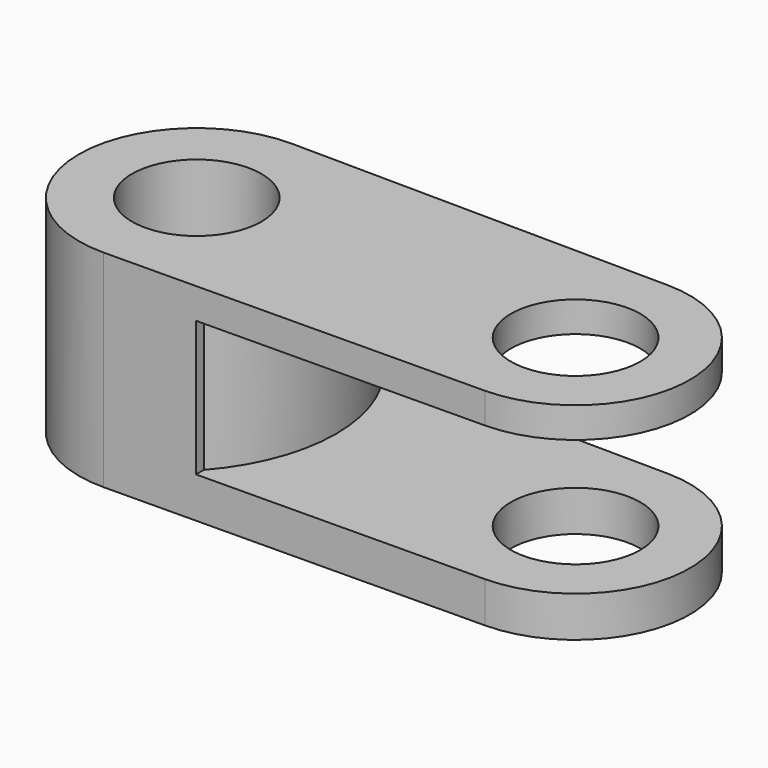
from build123d import *

# Parameters (mm, degrees)
F0_R     = 15.9206607186
F1_DEPTH = 50.8
F2_DEPTH = 50.8
F3_W     = 100.2022400498
F3_H     = 33.2709047943
F4_DEPTH = 77.724
F7_DEPTH = 36.83


with BuildPart() as f1:
    # F0 (on Top) → F1 (new body)
    with BuildSketch(Plane.XY):
        with BuildLine():
            ThreePointArc((-46.3083671537, -28.9735284728), (-17.6046094791, 0), (-46.3083671537, 28.9735284728))
            ThreePointArc((-46.3083671537, 28.9735284728), (-75.5542018517, 0), (-46.3083671537, -28.9735284728))
        make_face()
        with Locations((-46.5794056654, 0)):
            Circle(F0_R, mode=Mode.SUBTRACT)
    extrude(amount=F1_DEPTH)

    # F0 (on Top) → F2 (join)
    with BuildSketch(Plane.XY):
        with BuildLine():
            Line((46.8422925338, 28.1021324953), (-46.3083671537, 28.9735284728))
            ThreePointArc((-46.3083671537, 28.9735284728), (-17.6046094791, 0), (-46.3083671537, -28.9735284728))
            Line((-46.3083671537, -28.9735284728), (46.8422925338, -28.1021324953))
            ThreePointArc((46.8422925338, -28.1021324953), (74.682767747, 0), (46.8422925338, 28.1021324953))
        make_face()
        with Locations((46.5794056654, 0)):
            Circle(F0_R, mode=Mode.SUBTRACT)
    extrude(amount=F2_DEPTH)

    # F3 (on face) → F4 (cut)
    with BuildSketch(Plane(origin=(0.26696269, -28.537830484, 0), x_dir=(0.9999562477, 0.0093542854, 0), z_dir=(0.0093542854, -0.9999562477, 0))):
        with Locations((26.0913781822, 26.6495971009)):
            Rectangle(F3_W, F3_H)
    extrude(amount=-F4_DEPTH, mode=Mode.SUBTRACT)

    # F6 (on face) → F7 (join)
    with BuildSketch(Plane.XY.offset(10.0141447037)):
        with BuildLine():
            Line((-24.3764873594, 29.5255221426), (-24.3764873594, -27.0263291895))
            ThreePointArc((-24.3764873594, -27.0263291895), (-13.2836024282, 1.2495964766), (-24.3764873594, 29.5255221426))
        make_face()
    extrude(amount=F7_DEPTH)


solid = f1.part
